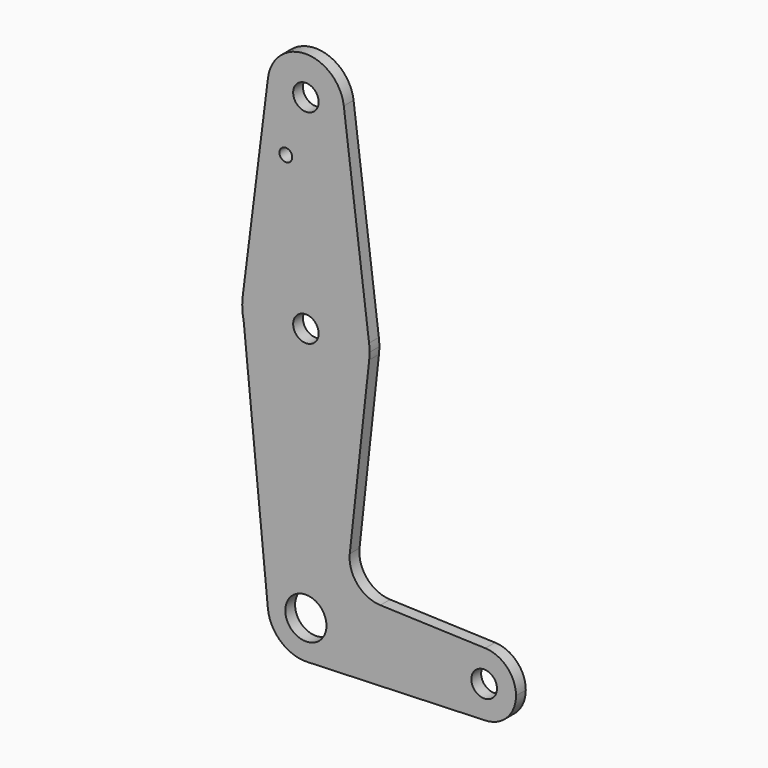
from build123d import *

# Parameters (mm, degrees)
F0_R     = 5.133709
F0_R_2   = 3.175
F0_R_3   = 3.195649
F0_R_4   = 1.5875
F1_DEPTH = 3.048


with BuildPart() as f1:
    # F0 (on Front) → F1 (new body)
    with BuildSketch(Plane.XZ):
        with BuildLine():
            ThreePointArc((0.340179, -9.518923), (6.854408, -6.613827), (9.525, 0))
            ThreePointArc((9.525, 0), (-0.468217, 9.513485), (-9.478968, -0.935302))
            ThreePointArc((-9.478968, -0.935302), (-6.268892, -7.171236), (0.340179, -9.518923))
        make_face()
        Circle(F0_R, mode=Mode.SUBTRACT)
        with BuildLine():
            ThreePointArc((-9.478968, -0.935302), (-0.468217, 9.513485), (9.525, 0))
            ThreePointArc((9.525, 0), (6.854408, -6.613827), (0.340179, -9.518923))
            Line((0.340179, -9.518923), (44.733482, -7.932436))
            ThreePointArc((44.733482, -7.932436), (36.5125, 0), (44.733482, 7.932436))
            Line((44.733482, 7.932436), (18.558061, 8.867869))
            ThreePointArc((18.558061, 8.867869), (12.827686, 11.6136), (10.939295, 17.680743))
            Line((10.939295, 17.680743), (15.780156, 61.767282))
            ThreePointArc((15.780156, 61.767282), (0.866691, 47.648676), (-15.497175, 60.057155))
            Line((-15.497175, 60.057155), (-9.478968, -0.935302))
        make_face()
        with BuildLine():
            ThreePointArc((-15.750488, 65.484375), (-15.857736, 62.759848), (-15.497175, 60.057155))
            ThreePointArc((-15.497175, 60.057155), (0.866691, 47.648676), (15.780156, 61.767282))
            ThreePointArc((15.780156, 61.767282), (15.851271, 62.632344), (15.875, 63.5))
            ThreePointArc((15.875, 63.5), (15.843841, 64.494139), (15.750488, 65.484375))
            ThreePointArc((15.750488, 65.484375), (0, 79.375), (-15.750488, 65.484375))
        make_face()
        with Locations((0, 63.5)):
            Circle(F0_R_2, mode=Mode.SUBTRACT)
        with BuildLine():
            ThreePointArc((44.733482, 7.932436), (36.5125, 0), (44.733482, -7.932436))
            ThreePointArc((44.733482, -7.932436), (50.162007, -5.511523), (52.3875, 0))
            ThreePointArc((52.3875, 0), (50.162007, 5.511523), (44.733482, 7.932436))
        make_face()
        with Locations((44.45, 0)):
            Circle(F0_R_3, mode=Mode.SUBTRACT)
        with BuildLine():
            Line((-9.450293, 115.490625), (-15.750488, 65.484375))
            ThreePointArc((-15.750488, 65.484375), (0, 79.375), (15.750488, 65.484375))
            Line((15.750488, 65.484375), (9.450293, 115.490625))
            ThreePointArc((9.450293, 115.490625), (9.506305, 114.896483), (9.525, 114.3))
            ThreePointArc((9.525, 114.3), (-0.596483, 104.793695), (-9.450293, 115.490625))
        make_face()
        with Locations((-4.996169, 100.0252)):
            Circle(F0_R_4, mode=Mode.SUBTRACT)
        with BuildLine():
            ThreePointArc((9.450293, 115.490625), (0, 123.825), (-9.450293, 115.490625))
            ThreePointArc((-9.450293, 115.490625), (-0.596483, 104.793695), (9.525, 114.3))
            ThreePointArc((9.525, 114.3), (9.506305, 114.896483), (9.450293, 115.490625))
        make_face()
        with Locations((0, 114.3)):
            Circle(F0_R_2, mode=Mode.SUBTRACT)
    extrude(amount=F1_DEPTH)


solid = f1.part
